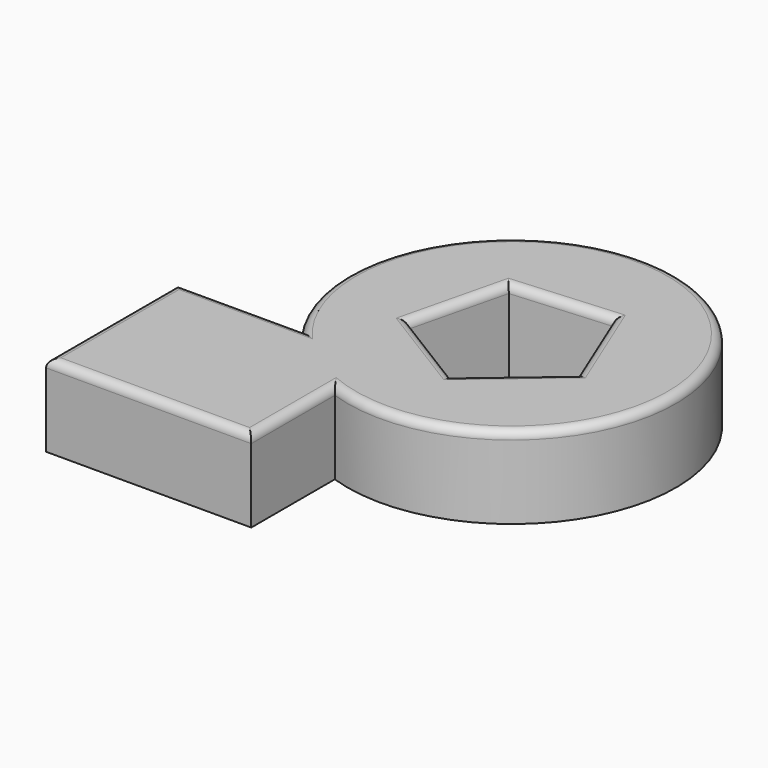
from build123d import *

# Parameters (mm, degrees)
F1_DEPTH = 48.26
F3_DEPTH = 25.4
F4_R     = 2.54


with BuildPart() as f1:
    # F0 (on Top) → F1 (new body)
    with BuildSketch(Plane.XY):
        with BuildLine():
            Line((0, -50.8), (63.5, -50.8))
            Line((63.5, -50.8), (63.5, -18.4782915836))
            ThreePointArc((63.5, -18.4782915836), (110.0348201001, 70.4604594113), (38.5441593826, 0))
            Line((38.5441593826, 0), (0, 0))
            Line((0, 0), (0, -50.8))
        make_face()
    extrude(amount=F1_DEPTH)

    # F2 (on face) → F3 (intersect)
    with BuildSketch(Plane.XY.offset(48.26)):
        with BuildLine():
            ThreePointArc((63.5, -18.4782915836), (110.0348201001, 70.4604594113), (38.5441593826, 0))
            Line((38.5441593826, 0), (0, 0))
            Line((0, 0), (0, -50.8))
            Line((0, -50.8), (63.5, -50.8))
            Line((63.5, -50.8), (63.5, -18.4782915836))
        make_face()
        Polygon((81.7504222175, 3.7261128257), (55.766562748, 19.7779196896), (63.0032841086, 49.4503196679), (93.4596833462, 51.7370645185), (105.0460518893, 23.4779505813), align=None, mode=Mode.SUBTRACT)
    extrude(amount=-F3_DEPTH, mode=Mode.INTERSECT)

    # F4
    f4_edges = [f1.edges().sort_by_distance(p)[0] for p in [
        (110.03482, 70.460459, 48.26),
        (19.27208, 0, 48.26),
        (0, -25.4, 48.26),
        (63.5, -34.639146, 48.26),
        (31.75, -50.8, 48.26),
        (99.252868, 37.607508, 48.26),
        (78.231484, 50.593692, 48.26),
        (59.384923, 34.61412, 48.26),
        (68.758492, 11.752016, 48.26),
        (93.398237, 13.602032, 48.26),
    ]]
    fillet(f4_edges, radius=F4_R)


solid = f1.part
